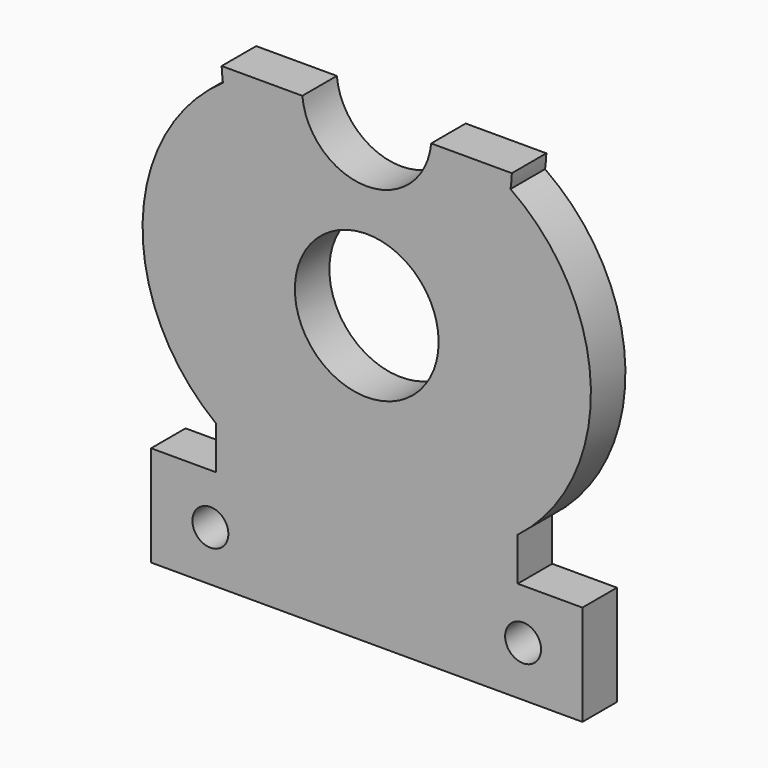
from build123d import *

# Parameters (mm, degrees)
BOX044_W         = 24
BOX044_H         = 42
BOX044_DEPTH     = 13
SKETCH022_R      = 5
SKETCH022_R_2    = 4.5
SKETCH022_R_3    = 1.25
EXTRUDE022_DEPTH = 3
BOX039_W         = 3
BOX039_H         = 2
BOX039_DEPTH     = 2


with BuildPart() as cube005:
    # Box044 → Box044 (new body)
    with BuildSketch(Plane(origin=(-12, -2, 12), x_dir=(1, 0, 0), z_dir=(0, 0, 1))):
        with Locations((12, 21)):
            Rectangle(BOX044_W, BOX044_H)
    extrude(amount=BOX044_DEPTH)


with BuildPart() as back_cover:
    # Sketch022 → Extrude022 (new body)
    with BuildSketch(Plane.XZ):
        with BuildLine():
            ThreePointArc((10, 11), (0, 22.517745), (-10, 11))
            ThreePointArc((-10, 11), (-15.587711, 0.627088), (-10.5, -10))
            Line((-10.5, -10), (-10.5, -13))
            Line((-10.5, -13), (-15, -13))
            Line((-15, -13), (-15, -20))
            Line((-15, -20), (15, -20))
            Line((15, -13), (15, -20))
            Line((10.5, -13), (15, -13))
            Line((10.5, -10), (10.5, -13))
            ThreePointArc((10.5, -10), (15.587711, 0.627088), (10, 11))
        make_face()
        Circle(SKETCH022_R, mode=Mode.SUBTRACT)
        with Locations((0, 12.417745)):
            Circle(SKETCH022_R_2, mode=Mode.SUBTRACT)
        with Locations((-10.8747, -16.5)):
            Circle(SKETCH022_R_3, mode=Mode.SUBTRACT)
        with Locations((10.8747, -16.5)):
            Circle(SKETCH022_R_3, mode=Mode.SUBTRACT)
    extrude(amount=-EXTRUDE022_DEPTH)


with BuildPart() as back_cover_1:
    # Extrude022 placement: moved
    add(back_cover.part.moved(Location((0, 31, 0))))


with BuildPart() as cover:
    # Box039 → Box039 (new body)
    with BuildSketch(Plane(origin=(-1.5, 29, 19.5), x_dir=(1, 0, 0), z_dir=(0, 0, 1))):
        with Locations((1.5, 1)):
            Rectangle(BOX039_W, BOX039_H)
    extrude(amount=BOX039_DEPTH)

    # Fusion025: union Back_cover
    add(back_cover_1.part)

    # Cut032: cut Cube005
    add(cube005.part, mode=Mode.SUBTRACT)


solid = cover.part
